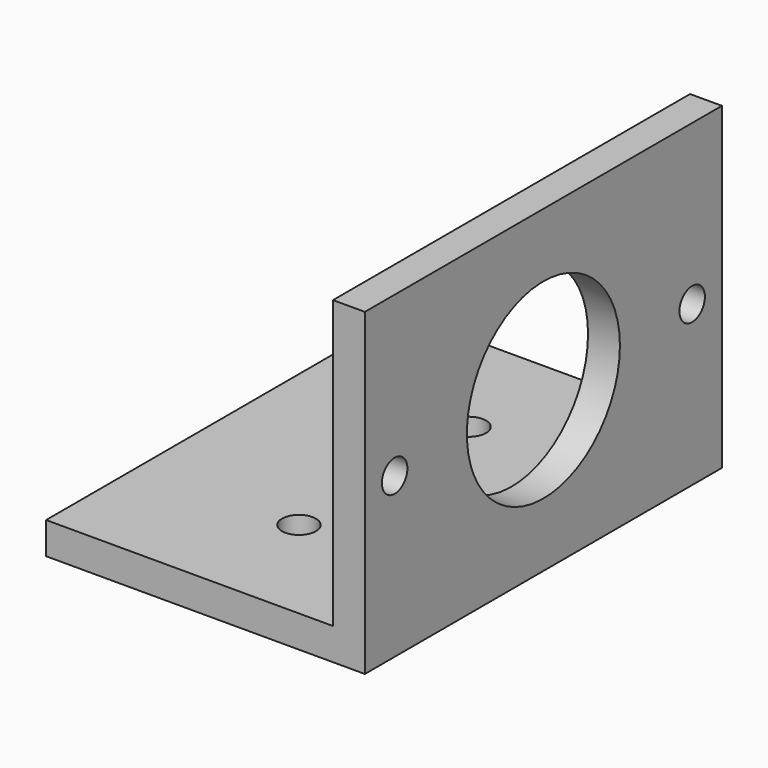
from build123d import *

# Parameters (mm, degrees)
F1_DEPTH = 42
F2_R     = 9
F2_R_2   = 1.5
F3_DEPTH = 30.001
F4_R     = 1.6
F5_DEPTH = 30.001


with BuildPart() as f1:
    # F0 (on Front) → F1 (new body)
    with BuildSketch(Plane.XZ):
        Polygon((0, 0), (0, 30), (-3, 30), (-3, 3), (-30, 3), (-30, 0), align=None)
    extrude(amount=F1_DEPTH)

    # F2 (on face) → F3 (cut, through all)
    with BuildSketch(Plane.YZ):
        with Locations((-21, 15)):
            Circle(F2_R)
        with Locations((-3.5, 15)):
            Circle(F2_R_2)
        with Locations((-38.5, 15)):
            Circle(F2_R_2)
    extrude(amount=-F3_DEPTH, mode=Mode.SUBTRACT)

    # F4 (on face) → F5 (cut, through all)
    with BuildSketch(Plane(origin=(0, 0, 0), x_dir=(1, 0, 0), z_dir=(0, 0, -1))):
        with Locations((-15, 11)):
            Circle(F4_R)
        with Locations((-15, 31)):
            Circle(F4_R)
    extrude(amount=-F5_DEPTH, mode=Mode.SUBTRACT)


solid = f1.part
